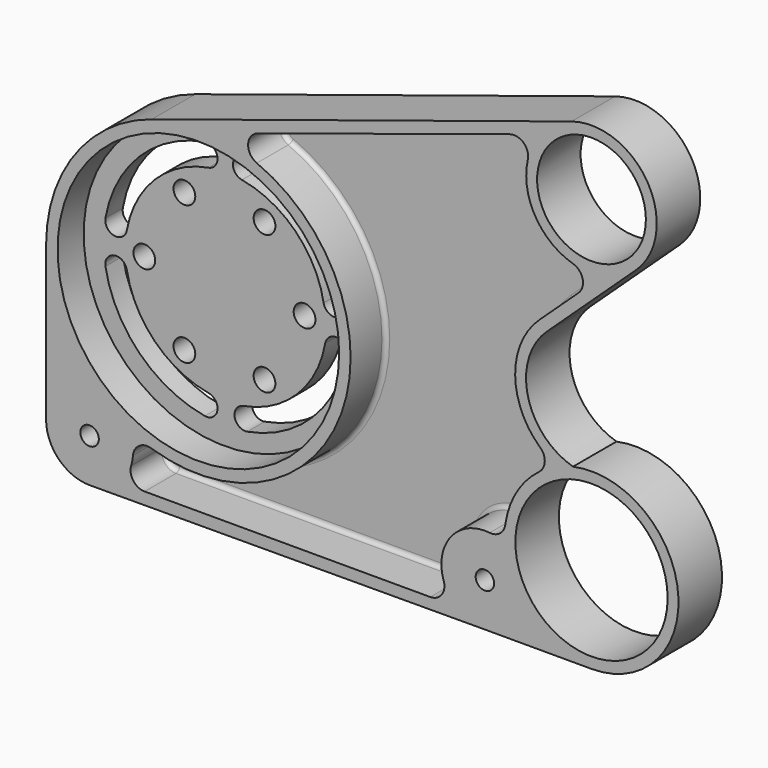
from build123d import *

# Parameters (mm, degrees)
F0_R     = 4.25
F0_R_2   = 64.727352
F0_R_3   = 35
F0_R_4   = 25
F1_DEPTH = 25
F2_DEPTH = 5
F0_R_5   = 5
F3_DEPTH = 10
F4_R     = 2


with BuildPart() as f1:
    # F0 (on Front) → F1 (new body)
    with BuildSketch(Plane.XZ):
        with BuildLine():
            Line((-79.221434, 8.551697), (-79.221434, -62.172039))
            ThreePointArc((-79.221434, -62.172039), (-73.337461, -76.340236), (-59.147655, -82.171903))
            Line((-59.147655, -82.171903), (122.501798, -81.501799))
            Line((122.501798, -81.501799), (171.501798, -81.501799))
            ThreePointArc((171.501798, -81.501799), (211.272403, -37.224069), (162.995402, -2.416748))
            ThreePointArc((162.995402, -2.416748), (142.222809, 19.4504), (150.953003, 48.320045))
            Line((150.953003, 48.320045), (191.960681, 86.556595))
            ThreePointArc((191.960681, 86.556595), (197.380732, 123.673205), (162.342815, 137.065893))
            Line((162.342815, 137.065893), (-30.592394, 75.209645))
            ThreePointArc((-30.592394, 75.209645), (-65.772151, 49.807198), (-79.221434, 8.551697))
        make_face()
        with Locations((-59.221434, -62.172039)):
            Circle(F0_R, mode=Mode.SUBTRACT)
        with Locations((-9.221434, 8.551697)):
            Circle(F0_R_2, mode=Mode.SUBTRACT)
        with BuildLine():
            ThreePointArc((-39.281463, -63.720447), (-36.417231, -58.822506), (-30.797483, -58.040151))
            ThreePointArc((-30.797483, -58.040151), (56.444701, -15.696162), (17.658669, 73.184971))
            ThreePointArc((17.658669, 73.184971), (13.660211, 79.454771), (18.161905, 85.373623))
            Line((18.161905, 85.373623), (133.888191, 122.647992))
            ThreePointArc((133.888191, 122.647992), (140.261736, 121.262963), (142.2244, 115.042968))
            ThreePointArc((142.2244, 115.042968), (145.633078, 93.30579), (162.956944, 79.740846))
            ThreePointArc((162.956944, 79.740846), (167.433191, 74.997051), (165.538317, 68.756071))
            Line((165.538317, 68.756071), (147.543189, 51.97698))
            ThreePointArc((147.543189, 51.97698), (136.412702, 26.139516), (147.894897, 0.456418))
            ThreePointArc((147.894897, 0.456418), (150.020686, -4.654258), (147.437848, -9.549861))
            ThreePointArc((147.437848, -9.549861), (137.009777, -21.245923), (131.874992, -36.050534))
            ThreePointArc((131.874992, -36.050534), (129.428981, -40.293368), (124.716016, -41.624746))
            ThreePointArc((124.716016, -41.624746), (106.920259, -48.963232), (103.558552, -67.916893))
            ThreePointArc((103.558552, -67.916893), (102.684131, -73.789814), (97.401997, -76.501799))
            Line((97.401997, -76.501799), (-33.904545, -76.501799))
            ThreePointArc((-33.904545, -76.501799), (-39.135859, -73.859694), (-40.114348, -68.081292))
            ThreePointArc((-40.114348, -68.081292), (-39.576526, -65.924052), (-39.281463, -63.720447))
        make_face(mode=Mode.SUBTRACT)
        with Locations((122.501798, -61.501799)):
            Circle(F0_R, mode=Mode.SUBTRACT)
        with Locations((171.501798, -41.501799)):
            Circle(F0_R_3, mode=Mode.SUBTRACT)
        with Locations((171.501798, 108.498201)):
            Circle(F0_R_4, mode=Mode.SUBTRACT)
    extrude(amount=F1_DEPTH)

    # F0 (on Front) → F2 (join)
    with BuildSketch(Plane.XZ):
        with BuildLine():
            ThreePointArc((17.658669, 73.184971), (56.444701, -15.696162), (-30.797483, -58.040151))
            ThreePointArc((-30.797483, -58.040151), (-36.417231, -58.822506), (-39.281463, -63.720447))
            ThreePointArc((-39.281463, -63.720447), (-39.576526, -65.924052), (-40.114348, -68.081292))
            ThreePointArc((-40.114348, -68.081292), (-39.135859, -73.859694), (-33.904545, -76.501799))
            Line((-33.904545, -76.501799), (97.401997, -76.501799))
            ThreePointArc((97.401997, -76.501799), (102.684131, -73.789814), (103.558552, -67.916893))
            ThreePointArc((103.558552, -67.916893), (106.920259, -48.963232), (124.716016, -41.624746))
            ThreePointArc((124.716016, -41.624746), (129.428981, -40.293368), (131.874992, -36.050534))
            ThreePointArc((131.874992, -36.050534), (137.009777, -21.245923), (147.437848, -9.549861))
            ThreePointArc((147.437848, -9.549861), (150.020686, -4.654258), (147.894897, 0.456418))
            ThreePointArc((147.894897, 0.456418), (136.412702, 26.139516), (147.543189, 51.97698))
            Line((147.543189, 51.97698), (165.538317, 68.756071))
            ThreePointArc((165.538317, 68.756071), (167.433191, 74.997051), (162.956944, 79.740846))
            ThreePointArc((162.956944, 79.740846), (145.633078, 93.30579), (142.2244, 115.042968))
            ThreePointArc((142.2244, 115.042968), (140.261736, 121.262963), (133.888191, 122.647992))
            Line((133.888191, 122.647992), (18.161905, 85.373623))
            ThreePointArc((18.161905, 85.373623), (13.660211, 79.454771), (17.658669, 73.184971))
        make_face()
    extrude(amount=F2_DEPTH)

    # F0 (on Front) → F3 (join)
    with BuildSketch(Plane.XZ):
        with Locations((-9.221434, 8.551697)):
            Circle(F0_R_2)
        with BuildLine():
            ThreePointArc((-63.940752, -1.277816), (-59.884955, 4.514463), (-54.092675, 0.458665))
            ThreePointArc((-54.092675, 0.458665), (-41.235719, -24.239316), (-16.537738, -37.096272))
            ThreePointArc((-16.537738, -37.096272), (-12.48194, -42.888551), (-18.27422, -46.944349))
            ThreePointArc((-18.27422, -46.944349), (-48.306787, -31.310384), (-63.940752, -1.277816))
        make_face(mode=Mode.SUBTRACT)
        with Locations((-27.634205, -23.340158)):
            Circle(F0_R_5, mode=Mode.SUBTRACT)
        with Locations((-46.046976, 8.551697)):
            Circle(F0_R_5, mode=Mode.SUBTRACT)
        with Locations((9.191337, -23.340158)):
            Circle(F0_R_5, mode=Mode.SUBTRACT)
        with BuildLine():
            ThreePointArc((46.944348, -1.277816), (31.310383, -31.310384), (1.277815, -46.944349))
            ThreePointArc((1.277815, -46.944349), (-4.514464, -42.888551), (-0.458666, -37.096272))
            ThreePointArc((-0.458666, -37.096272), (24.239315, -24.239316), (37.096271, 0.458665))
            ThreePointArc((37.096271, 0.458665), (42.88855, 4.514463), (46.944348, -1.277816))
        make_face(mode=Mode.SUBTRACT)
        with Locations((27.604108, 8.551697)):
            Circle(F0_R_5, mode=Mode.SUBTRACT)
        with BuildLine():
            ThreePointArc((-63.940752, 18.274219), (-48.306787, 48.306786), (-18.27422, 63.940752))
            ThreePointArc((-18.27422, 63.940752), (-12.48194, 59.884954), (-16.537738, 54.092674))
            ThreePointArc((-16.537738, 54.092674), (-41.235719, 41.235719), (-54.092675, 16.537737))
            ThreePointArc((-54.092675, 16.537737), (-59.884955, 12.481939), (-63.940752, 18.274219))
        make_face(mode=Mode.SUBTRACT)
        with Locations((-27.634205, 40.443552)):
            Circle(F0_R_5, mode=Mode.SUBTRACT)
        with Locations((9.191337, 40.443552)):
            Circle(F0_R_5, mode=Mode.SUBTRACT)
        with BuildLine():
            ThreePointArc((46.221116, 18.327714), (42.165318, 12.535435), (36.373039, 16.591232))
            ThreePointArc((36.373039, 16.591232), (23.516083, 41.289214), (-1.181898, 54.14617))
            ThreePointArc((-1.181898, 54.14617), (-5.237696, 59.938449), (0.554583, 63.994247))
            ThreePointArc((0.554583, 63.994247), (30.587151, 48.360282), (46.221116, 18.327714))
        make_face(mode=Mode.SUBTRACT)
    extrude(amount=F3_DEPTH)

    # F4
    f4_edges = [f1.edges().sort_by_distance(p)[0] for p in [
        (13.660211, -5, 79.454771),
        (56.444701, -5, -15.696162),
        (-36.417231, -5, -58.822506),
        (-39.576526, -5, -65.924052),
        (-39.135859, -5, -73.859694),
        (31.748726, -5, -76.501799),
        (102.684131, -5, -73.789814),
        (106.920259, -5, -48.963232),
        (129.428981, -5, -40.293368),
        (137.009777, -5, -21.245923),
        (150.020686, -5, -4.654258),
        (136.412702, -5, 26.139516),
        (156.540753, -5, 60.366526),
        (167.433191, -5, 74.997051),
        (145.633078, -5, 93.30579),
        (140.261736, -5, 121.262963),
        (76.025048, -5, 104.010807),
    ]]
    fillet(f4_edges, radius=F4_R)


solid = f1.part
